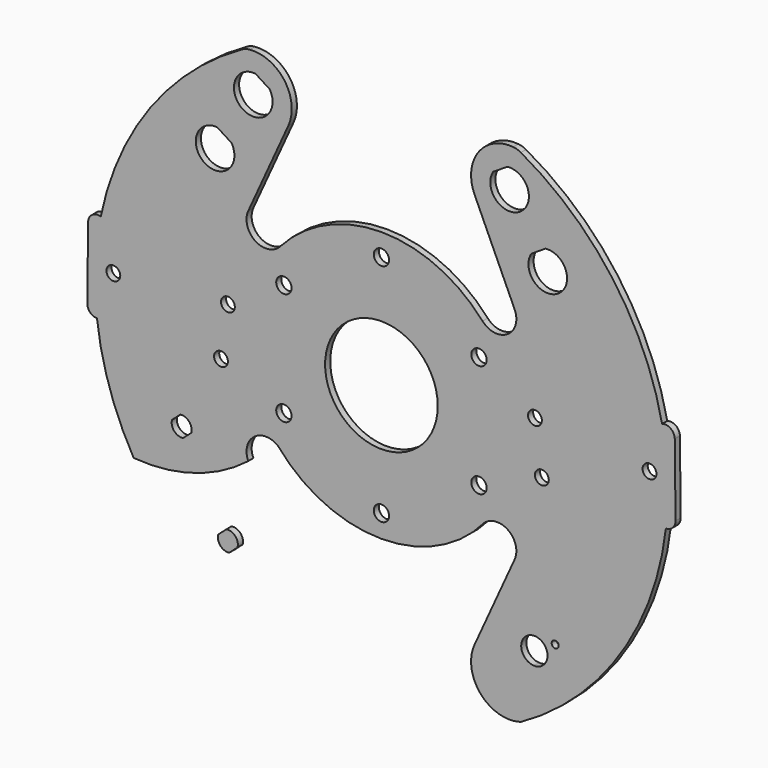
from build123d import *

# Parameters (mm, degrees)
F0_R     = 2.15
F0_R_2   = 2.3825
F0_R_3   = 1.1
F0_R_4   = 17.5
F1_DEPTH = 2


with BuildPart() as f1:
    # F0 (on Front) → F1 (new body)
    with BuildSketch(Plane.XZ):
        with BuildLine():
            Line((-39.711935, 26.428329), (-27.268726, 53.760611))
            ThreePointArc((-27.268726, 53.760611), (-28.404203, 65.677781), (-39.278662, 70.683217))
            ThreePointArc((-39.278662, 70.683217), (-40.505395, 70.440636), (-41.655203, 69.949046))
            ThreePointArc((-41.655203, 69.949046), (-70.154613, 44.763538), (-85.537546, 9.980042))
            ThreePointArc((-85.537546, 9.980042), (-88.221901, 9.57126), (-89.476801, 7.163337))
            Line((-89.476801, 7.163337), (-89.718266, -15.184113))
            ThreePointArc((-89.718266, -15.184113), (-88.85119, -17.326356), (-86.718441, -18.216527))
            ThreePointArc((-86.718441, -18.216527), (-82.792577, -36.069327), (-75.300669, -52.742846))
            ThreePointArc((-75.300669, -52.742846), (-56.491636, -50.745858), (-39.711935, -42.016063))
            ThreePointArc((-39.711935, -42.016063), (-37.877214, -34.749647), (-30.385206, -34.941554))
            ThreePointArc((-30.385206, -34.941554), (1.669611, -49.819924), (33.724427, -34.941554))
            ThreePointArc((33.724427, -34.941554), (41.216435, -34.749647), (43.051157, -42.016063))
            Line((43.051157, -42.016063), (30.607947, -69.348345))
            ThreePointArc((30.607947, -69.348345), (32.18334, -81.847096), (44.05893, -86.050788))
            Line((44.05893, -86.050788), (45.100291, -85.776808))
            ThreePointArc((45.100291, -85.776808), (75.731358, -57.421595), (90.057662, -18.216527))
            ThreePointArc((90.057662, -18.216527), (92.190412, -17.326356), (93.057487, -15.184113))
            Line((93.057487, -15.184113), (92.816023, 7.163337))
            ThreePointArc((92.816023, 7.163337), (91.561122, 9.57126), (88.876767, 9.980042))
            ThreePointArc((88.876767, 9.980042), (73.493835, 44.763538), (44.994424, 69.949046))
            ThreePointArc((44.994424, 69.949046), (43.844616, 70.440636), (42.617884, 70.683217))
            ThreePointArc((42.617884, 70.683217), (31.743424, 65.677781), (30.607947, 53.760611))
            Line((30.607947, 53.760611), (43.051157, 26.428329))
            ThreePointArc((43.051157, 26.428329), (40.857774, 18.909956), (33.097471, 19.965687))
            ThreePointArc((33.097471, 19.965687), (1.669611, 34.119183), (-29.75825, 19.965687))
            ThreePointArc((-29.75825, 19.965687), (-37.518553, 18.909956), (-39.711935, 26.428329))
        make_face()
        with BuildLine():
            Line((-63.397028, -38.427877), (-62.263916, -37.418369))
            Line((-62.263916, -37.418369), (-60.853172, -36.161514))
            ThreePointArc((-60.853172, -36.161514), (-58.08786, -37.166065), (-57.407165, -40.028358))
            Line((-57.407165, -40.028358), (-58.729843, -41.205548))
            Line((-58.729843, -41.205548), (-59.955224, -42.296143))
            ThreePointArc((-59.955224, -42.296143), (-62.718182, -41.289184), (-63.397028, -38.427877))
        make_face(mode=Mode.SUBTRACT)
        with Locations((-48.178753, -16.817021)):
            Circle(F0_R, mode=Mode.SUBTRACT)
        with Locations((-28.641278, -25.293867)):
            Circle(F0_R_2, mode=Mode.SUBTRACT)
        with BuildLine():
            ThreePointArc((49.11853, -69.085987), (46.321953, -62.080848), (53.278085, -64.997188))
            ThreePointArc((53.278085, -64.997188), (52.779338, -66.954329), (51.404754, -68.434081))
            ThreePointArc((51.404754, -68.434081), (50.326618, -68.987902), (49.11853, -69.085987))
        make_face(mode=Mode.SUBTRACT)
        with Locations((55.660676, -61.171007)):
            Circle(F0_R_3, mode=Mode.SUBTRACT)
        with Locations((1.669611, -42.793867)):
            Circle(F0_R_2, mode=Mode.SUBTRACT)
        with Locations((1.669611, -7.793867)):
            Circle(F0_R_4, mode=Mode.SUBTRACT)
        with Locations((31.9805, -25.293867)):
            Circle(F0_R_2, mode=Mode.SUBTRACT)
        with Locations((51.517974, -16.817021)):
            Circle(F0_R, mode=Mode.SUBTRACT)
        with Locations((-81.627521, -4.258437)):
            Circle(F0_R, mode=Mode.SUBTRACT)
        with Locations((-46.028753, -1.214457)):
            Circle(F0_R, mode=Mode.SUBTRACT)
        with Locations((-28.641278, 9.706133)):
            Circle(F0_R_2, mode=Mode.SUBTRACT)
        with BuildLine():
            ThreePointArc((-44.913546, 43.342075), (-53.236076, 35.118675), (-49.299005, 46.13631))
            Line((-49.299005, 46.13631), (-44.913546, 43.342075))
        make_face(mode=Mode.SUBTRACT)
        with BuildLine():
            ThreePointArc((-33.052759, 61.880907), (-41.37529, 53.657506), (-37.438218, 64.675142))
            Line((-37.438218, 64.675142), (-33.052759, 61.880907))
        make_face(mode=Mode.SUBTRACT)
        with Locations((31.9805, 9.706133)):
            Circle(F0_R_2, mode=Mode.SUBTRACT)
        with Locations((1.669611, 27.206133)):
            Circle(F0_R_2, mode=Mode.SUBTRACT)
        with Locations((49.367974, -1.214457)):
            Circle(F0_R, mode=Mode.SUBTRACT)
        with Locations((84.966743, -4.258437)):
            Circle(F0_R, mode=Mode.SUBTRACT)
        with BuildLine():
            Line((36.391981, 61.880907), (40.77744, 64.675142))
            ThreePointArc((40.77744, 64.675142), (44.714511, 53.657506), (36.391981, 61.880907))
        make_face(mode=Mode.SUBTRACT)
        with BuildLine():
            Line((48.252767, 43.342075), (52.638226, 46.13631))
            ThreePointArc((52.638226, 46.13631), (56.575297, 35.118675), (48.252767, 43.342075))
        make_face(mode=Mode.SUBTRACT)
        with BuildLine():
            Line((-46.493622, -62.856286), (-47.904366, -64.113141))
            Line((-47.904366, -64.113141), (-49.037478, -65.122648))
            ThreePointArc((-49.037478, -65.122648), (-48.358633, -67.983955), (-45.595674, -68.990914))
            Line((-45.595674, -68.990914), (-44.370293, -67.900319))
            Line((-44.370293, -67.900319), (-43.047615, -66.72313))
            ThreePointArc((-43.047615, -66.72313), (-43.72831, -63.860836), (-46.493622, -62.856286))
        make_face()
    extrude(amount=F1_DEPTH)


solid = f1.part
